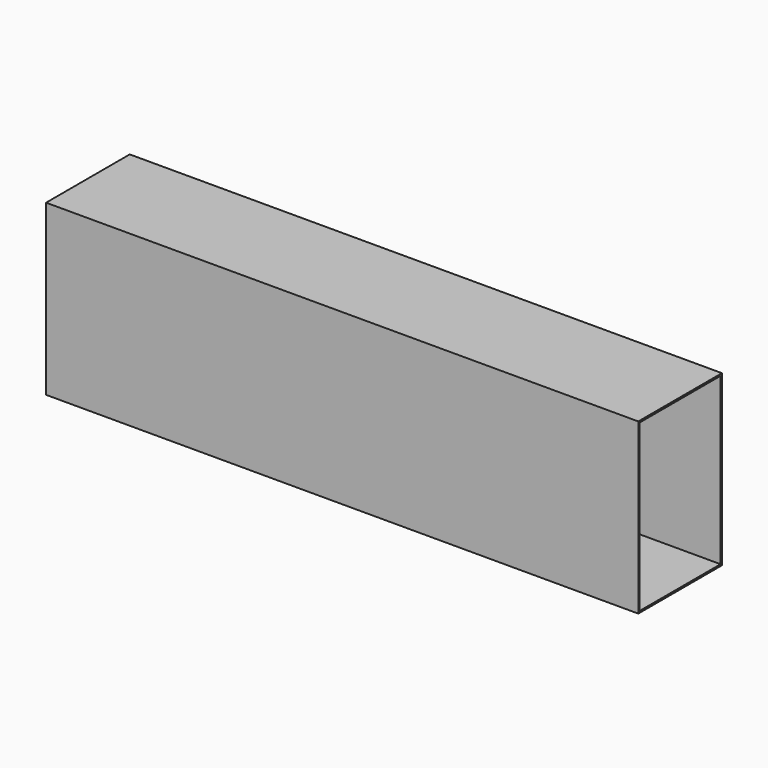
from build123d import *

# Parameters (mm, degrees)
SKETCH_W   = 123.6
SKETCH_H   = 200
SKETCH_W_2 = 119.6
SKETCH_H_2 = 196
PAD_DEPTH  = 700


with BuildPart() as part:
    # Sketch → Pad (new body)
    with BuildSketch(Plane.YZ):
        with Locations((61.8, -100)):
            Rectangle(SKETCH_W, SKETCH_H)
        with Locations((61.8, -100)):
            Rectangle(SKETCH_W_2, SKETCH_H_2, mode=Mode.SUBTRACT)
    extrude(amount=PAD_DEPTH)


solid = part.part
